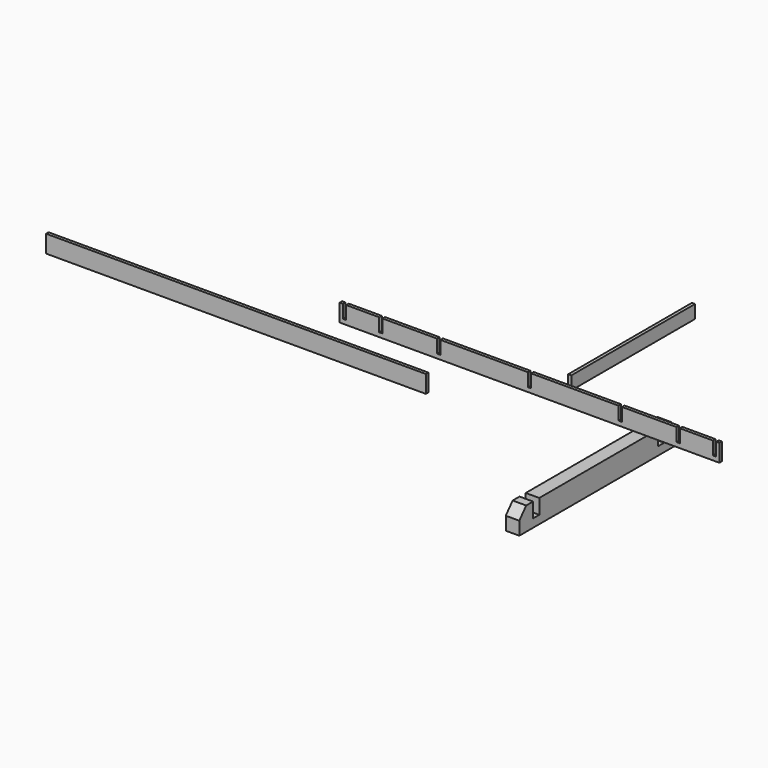
from build123d import *

# Parameters (mm, degrees)
F1_DEPTH = 19
F3_W     = 2300
F3_H     = 106
F4_DEPTH = 19
F6_DEPTH = 82
F8_W     = 936
F8_H     = 80
F9_DEPTH = 19


with BuildPart() as f1:
    # F0 (on Front) → F1 (new body)
    with BuildSketch(Plane.XZ):
        Polygon((-1150, 0), (0, 0), (1150, 0), (1150, 106), (1130, 106), (1130, 26), (1110, 26), (1110, 106), (910, 106), (910, 26), (890, 26), (890, 106), (560, 106), (560, 26), (540, 26), (540, 106), (10, 106), (10, 26), (0, 26), (-10, 26), (-10, 106), (-540, 106), (-540, 26), (-560, 26), (-560, 106), (-890, 106), (-890, 26), (-910, 26), (-910, 106), (-1110, 106), (-1110, 26), (-1130, 26), (-1130, 106), (-1150, 106), align=None)
    extrude(amount=F1_DEPTH)


with BuildPart() as f4:
    # F3 (on offset) → F4 (new body)
    with BuildSketch(Plane.XZ.offset(44)):
        with Locations((-1742.3728346825, -128.3702881336)):
            Rectangle(F3_W, F3_H)
    extrude(amount=F4_DEPTH)


with BuildPart() as f6:
    # F5 (on Right) → F6 (new body)
    with BuildSketch(Plane.YZ):
        Polygon((-94.6733198166, -523.0825400352), (-146.6733198166, -523.0825400352), (-198.6733198166, -583.0825400352), (-198.6733198166, -663.0825400352), (1001.3266801834, -663.0825400352), (1001.3266801834, -583.0825400352), (949.3266801834, -523.0825400352), (897.3266801834, -523.0825400352), (897.3266801834, -613.0825400352), (850.3266801834, -613.0825400352), (850.3266801834, -523.0825400352), (-47.6733198166, -523.0825400352), (-47.6733198166, -613.0825400352), (-94.6733198166, -613.0825400352), align=None)
    extrude(amount=F6_DEPTH)


with BuildPart() as f9:
    # F8 (on offset) → F9 (new body)
    with BuildSketch(Plane.YZ.offset(25)):
        with Locations((710.6946312189, -40)):
            Rectangle(F8_W, F8_H)
    extrude(amount=F9_DEPTH)


solid = Compound([f1.part, f4.part, f6.part, f9.part])
